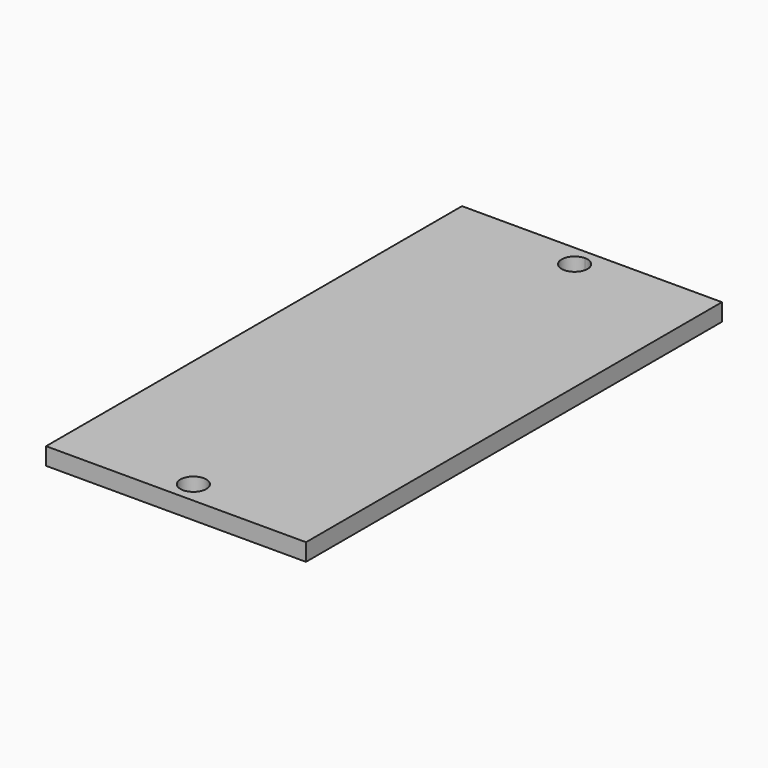
from build123d import *

# Parameters (mm, degrees)
F0_W     = 30
F0_H     = 60
F1_DEPTH = 2
F3_DEPTH = 25


with BuildPart() as f1:
    # F0 (on Top) → F1 (new body)
    with BuildSketch(Plane.XY):
        Rectangle(F0_W, F0_H)
    extrude(amount=F1_DEPTH)

    # F2 (on face) → F3 (cut)
    with BuildSketch(Plane.XY.offset(2)):
        with BuildLine():
            ThreePointArc((1.5, -27.5), (-1.06066, -26.43934), (0, -29))
            ThreePointArc((0, -29), (1.06066, -28.56066), (1.5, -27.5))
        make_face()
        with BuildLine():
            ThreePointArc((1.5, 27.5), (1.06066, 28.56066), (0, 29))
            ThreePointArc((0, 29), (-1.06066, 26.43934), (1.5, 27.5))
        make_face()
    extrude(amount=-F3_DEPTH, mode=Mode.SUBTRACT)


solid = f1.part
